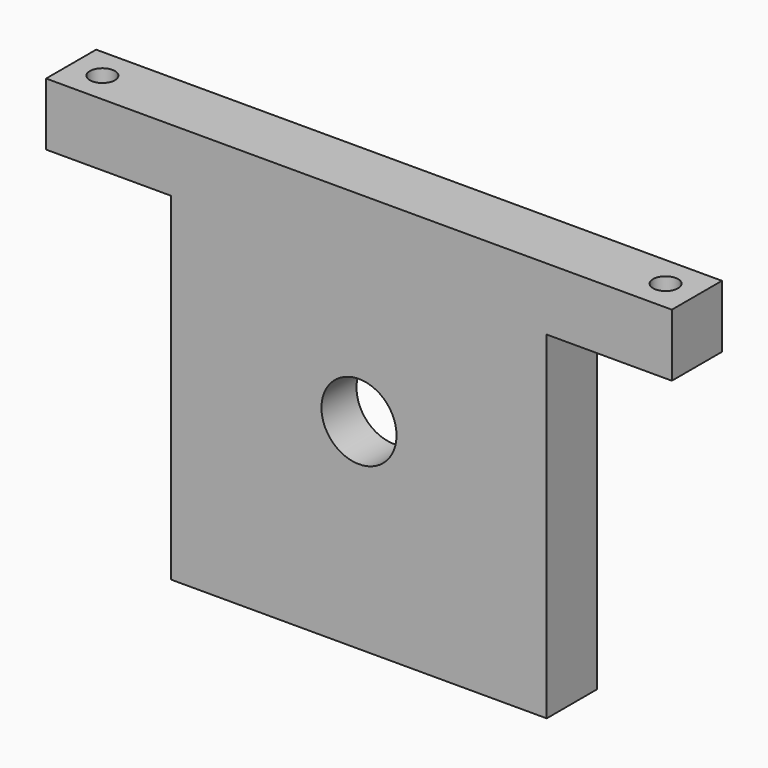
from build123d import *

# Parameters (mm, degrees)
F0_R     = 10
F0_R_2   = 6
F1_DEPTH = 10
F2_R     = 2
F3_DEPTH = 64.001
F4_DEPTH = 3


with BuildPart() as f1:
    # F0 (on Front) → F1 (new body)
    with BuildSketch(Plane.XZ):
        Polygon((0, 64), (-100, 64), (-100, 54), (-80, 54), (-80, 0), (-20, 0), (-20, 54), (0, 54), align=None)
        with Locations((-50, 32)):
            Circle(F0_R, mode=Mode.SUBTRACT)
        with Locations((-50, 32)):
            Circle(F0_R)
        with Locations((-50, 32)):
            Circle(F0_R_2, mode=Mode.SUBTRACT)
    extrude(amount=F1_DEPTH)

    # F2 (on face) → F3 (cut, through all)
    with BuildSketch(Plane.XY.offset(64)):
        with Locations((-95, -5)):
            Circle(F2_R)
        with Locations((-5, -5)):
            Circle(F2_R)
    extrude(amount=-F3_DEPTH, mode=Mode.SUBTRACT)

    # F0 (on Front) → F4 (cut)
    with BuildSketch(Plane.XZ):
        with Locations((-50, 32)):
            Circle(F0_R)
        with Locations((-50, 32)):
            Circle(F0_R_2, mode=Mode.SUBTRACT)
    extrude(amount=F4_DEPTH, mode=Mode.SUBTRACT)


solid = f1.part
